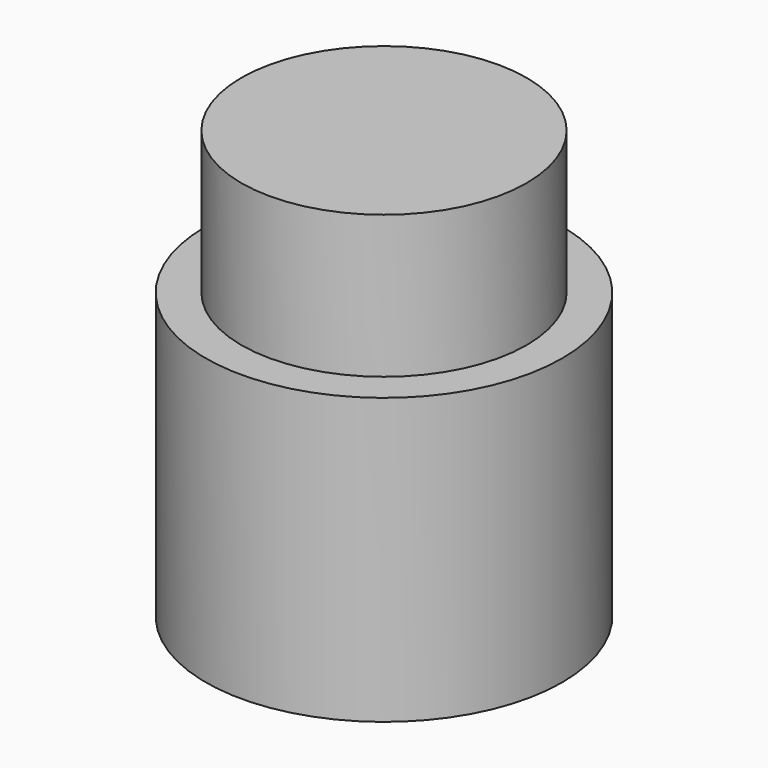
from build123d import *

# Parameters (mm, degrees)
F0_R     = 5
F0_R_2   = 4
F1_DEPTH = 8
F2_DEPTH = 12


with BuildPart() as f1:
    # F0 (on Top) → F1 (new body)
    with BuildSketch(Plane.XY):
        Circle(F0_R)
        Circle(F0_R_2, mode=Mode.SUBTRACT)
    extrude(amount=F1_DEPTH)

    # F0 (on Top) → F2 (join)
    with BuildSketch(Plane.XY):
        Circle(F0_R_2)
    extrude(amount=F2_DEPTH)

    # F3 (on Front) → F4 (revolve, cut)
    with BuildSketch(Plane.XZ):
        Polygon((2.1, -3.645375), (2.1, 0), (2.1, 7.9), (0, 10), (0, -3.645375), align=None)
    revolve(axis=Axis((0, 0, 3.177312), (0, 0, 1)), mode=Mode.SUBTRACT)


solid = f1.part
